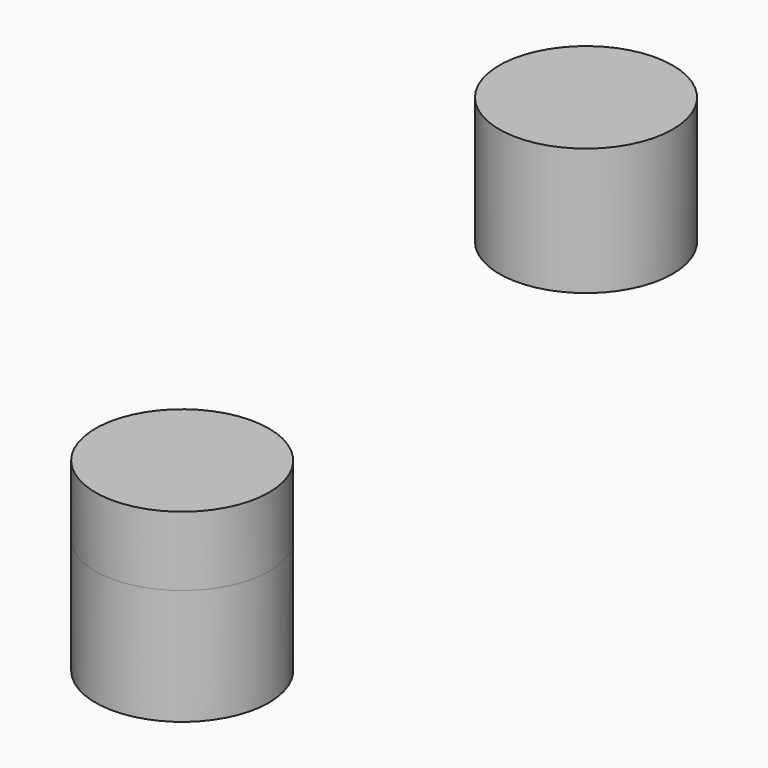
from build123d import *

# Parameters (mm, degrees)
F3_R          = 15
F4_DEPTH      = 10
F4_DEPTH_BACK = 12
F6_R          = 15
F7_DEPTH      = 20
F7_DEPTH_BACK = 12


with BuildPart() as f4:
    # F3 (on offset) → F4 (new body, two sides)
    with BuildSketch(Plane.XY.offset(40)) as f4_sk:
        Circle(F3_R)
    extrude(amount=F4_DEPTH)
    extrude(f4_sk.sketch, amount=-F4_DEPTH_BACK)


with BuildPart() as f7:
    # F6 (on Top) → F7 (new body, two sides)
    with BuildSketch(Plane.XY) as f7_sk:
        with Locations((-21.838214056, -60)):
            Circle(F6_R)
    extrude(amount=-F7_DEPTH)
    extrude(f7_sk.sketch, amount=F7_DEPTH_BACK)


solid = Compound([f4.part, f7.part])
